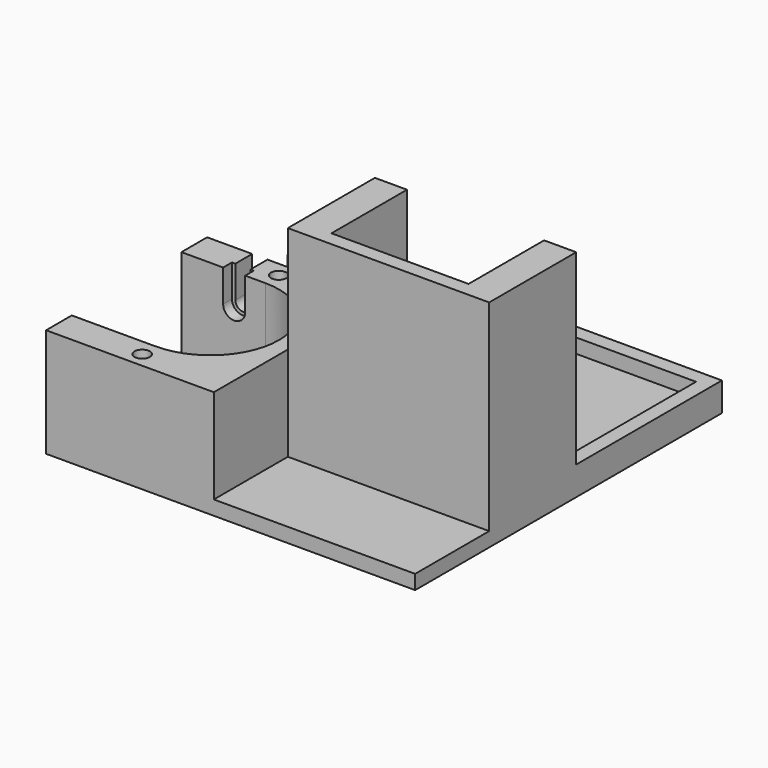
from build123d import *

# Parameters (mm, degrees)
SKETCH_W        = 77
SKETCH_H        = 80
PAD_DEPTH       = 3
SKETCH001_W     = 35
SKETCH001_H     = 42
PAD001_DEPTH    = 19.7
POCKET_DEPTH    = 19.7
SKETCH003_W     = 42
SKETCH003_H     = 22.7
PAD002_DEPTH    = 42
POCKET001_DEPTH = 19.7
SKETCH006_R     = 1.6
POCKET002_DEPTH = 8
SKETCH007_R     = 2.3
POCKET003_DEPTH = 2.3
SKETCH008_W     = 10
SKETCH008_H     = 4
PAD003_DEPTH    = 13
POCKET004_DEPTH = 4
POCKET005_DEPTH = 6.7
SKETCH011_W     = 4.4
SKETCH011_H     = 1.9
POCKET006_DEPTH = 2.5
SKETCH012_R     = 1.6
POCKET007_DEPTH = 22.701
PAD004_DEPTH    = 3
SKETCH014_R     = 2.3
POCKET008_DEPTH = 2.3


with BuildPart() as part:
    # Sketch → Pad (new body)
    with BuildSketch(Plane.XY):
        with Locations((4.24216, 5.423944)):
            Rectangle(SKETCH_W, SKETCH_H)
    extrude(amount=PAD_DEPTH)

    # Sketch001 → Pad001 (new body)
    with BuildSketch(Plane.XY.offset(3)):
        with Locations((-16.75784, -13.576056)):
            Rectangle(SKETCH001_W, SKETCH001_H)
    extrude(amount=PAD001_DEPTH)

    # Sketch002 → Pocket (cut)
    with BuildSketch(Plane.XY.offset(22.7)):
        with BuildLine():
            ThreePointArc((-16.75784, -27.876056), (-2.45784, -13.576056), (-16.75784, 0.723944))
            Line((-16.75784, 0.723944), (-34.25784, 0.723944))
            Line((-34.25784, -27.876057), (-34.25784, 0.723944))
            Line((-16.75784, -27.876056), (-34.25784, -27.876057))
        make_face()
    extrude(amount=-POCKET_DEPTH, mode=Mode.SUBTRACT)

    # Sketch003 → Pad002 (new body)
    with BuildSketch(Plane.XY.offset(3)):
        with Locations((21.74216, -3.926056)):
            Rectangle(SKETCH003_W, SKETCH003_H)
    extrude(amount=PAD002_DEPTH)

    # Sketch004 → Pocket001 (cut)
    with BuildSketch(Plane(origin=(0, 7.423944, 0), x_dir=(-1, 0, 0), z_dir=(0, 1, 0))):
        with BuildLine():
            ThreePointArc((-36.04216, 24), (-21.74216, 9.7), (-7.44216, 24))
            Line((-7.44216, 24), (-7.44216, 45))
            Line((-36.04216, 45), (-7.44216, 45))
            Line((-36.04216, 24), (-36.04216, 45))
        make_face()
    extrude(amount=-POCKET001_DEPTH, mode=Mode.SUBTRACT)

    # Sketch006 → Pocket002 (cut)
    with BuildSketch(Plane(origin=(0, 7.423944, 0), x_dir=(-1, 0, 0), z_dir=(0, 1, 0))):
        with Locations((23.25784, 16)):
            Circle(SKETCH006_R)
    extrude(amount=-POCKET002_DEPTH, mode=Mode.SUBTRACT)

    # Sketch007 → Pocket003 (cut)
    with BuildSketch(Plane.XZ.offset(-0.723944)):
        with Locations((-23.25784, 16)):
            Circle(SKETCH007_R)
    extrude(amount=-POCKET003_DEPTH, mode=Mode.SUBTRACT)

    # Sketch008 → Pad003 (new body)
    with BuildSketch(Plane.XY.offset(3)):
        with Locations((-23.25784, 22.823944)):
            Rectangle(SKETCH008_W, SKETCH008_H)
    extrude(amount=PAD003_DEPTH)

    # Sketch009 → Pocket004 (cut)
    with BuildSketch(Plane(origin=(0, 24.823944, 0), x_dir=(-1, 0, 0), z_dir=(0, 1, 0))):
        with BuildLine():
            ThreePointArc((21.65784, 16), (23.25784, 14.4), (24.85784, 16))
            Line((21.65784, 16), (24.85784, 16))
        make_face()
    extrude(amount=-POCKET004_DEPTH, mode=Mode.SUBTRACT)

    # Sketch010 → Pocket005 (cut)
    with BuildSketch(Plane.XY.offset(22.7)):
        Polygon((-24.85784, 7.423944), (-21.65784, 7.423944), (-21.65784, 3.023944), (-20.95784, 3.023944), (-20.95784, 0.723944), (-25.55784, 0.723944), (-25.55784, 3.023944), (-24.85784, 3.023944), align=None)
    extrude(amount=-POCKET005_DEPTH, mode=Mode.SUBTRACT)

    # Sketch011 → Pocket006 (cut)
    with BuildSketch(Plane.XY.offset(16)):
        with Locations((-23.25784, 22.873944)):
            Rectangle(SKETCH011_W, SKETCH011_H)
    extrude(amount=-POCKET006_DEPTH, mode=Mode.SUBTRACT)

    # Sketch012 → Pocket007 (cut, through all)
    with BuildSketch(Plane.XY.offset(22.7)):
        with Locations((-16.75784, -31.376056)):
            Circle(SKETCH012_R)
        with Locations((-16.75784, 4.223944)):
            Circle(SKETCH012_R)
    extrude(amount=-POCKET007_DEPTH, mode=Mode.SUBTRACT)

    # Sketch013 → Pad004 (new body)
    with BuildSketch(Plane.XY.offset(3)):
        Polygon((-34.25784, 7.423944), (-34.25784, 45.423944), (42.74216, 45.423944), (42.74216, 7.423944), (39.74216, 7.423944), (39.74216, 42.423944), (-31.25784, 42.423944), (-31.25784, 7.423944), align=None)
    extrude(amount=PAD004_DEPTH)

    # Sketch014 → Pocket008 (cut)
    with BuildSketch(Plane(origin=(0, 0, 0), x_dir=(1, 0, 0), z_dir=(0, 0, -1))):
        with Locations((-16.75784, 31.376056)):
            Circle(SKETCH014_R)
        with Locations((-16.75784, -4.223944)):
            Circle(SKETCH014_R)
    extrude(amount=-POCKET008_DEPTH, mode=Mode.SUBTRACT)


solid = part.part
